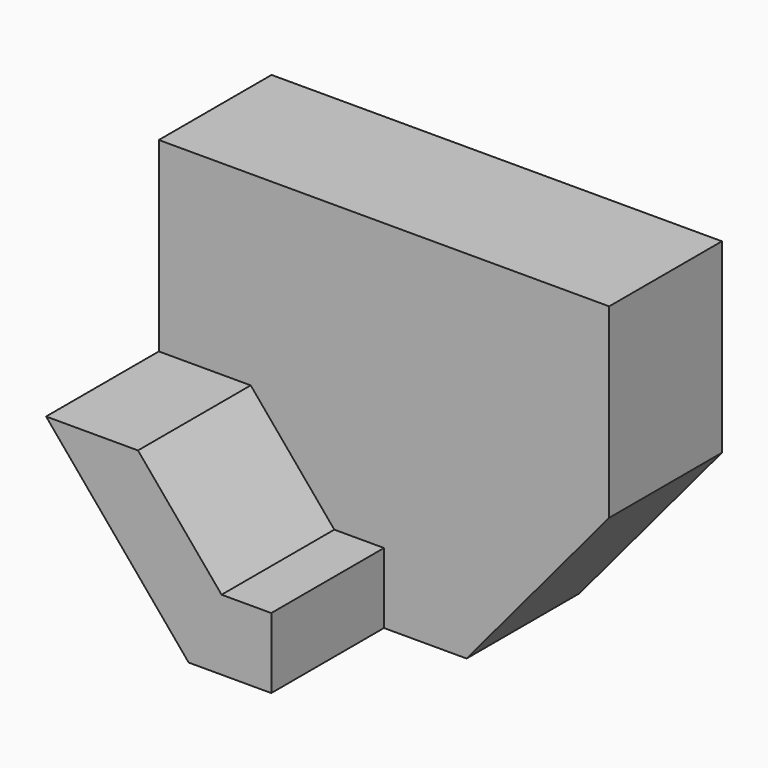
from build123d import *

# Parameters (mm, degrees)
F1_DEPTH = 25.4
F2_DEPTH = 25.4


with BuildPart() as f1:
    # F0 (on Front) → F1 (new body)
    with BuildSketch(Plane.XZ):
        Polygon((-7.885207, -19.406637), (-24.450425, -19.406637), (1.253124, -50.099254), (16.138992, -50.099254), (16.138992, -37.399254), (7.18272, -37.399254), align=None)
    extrude(amount=F1_DEPTH)

    # F0 (on Front) → F2 (join)
    with BuildSketch(Plane.XZ):
        Polygon((56.72841, 14.143533), (-24.450425, 14.143533), (-24.450425, -19.406637), (-7.885207, -19.406637), (7.18272, -37.399254), (16.138992, -37.399254), (25.095264, -37.399254), (40.163191, -19.406637), (56.72841, -19.406637), align=None)
        Polygon((-7.885207, -19.406637), (-24.450425, -19.406637), (1.253124, -50.099254), (16.138992, -50.099254), (16.138992, -37.399254), (7.18272, -37.399254), align=None)
        Polygon((31.02486, -50.099254), (56.72841, -19.406637), (40.163191, -19.406637), (25.095264, -37.399254), (16.138992, -37.399254), (16.138992, -50.099254), align=None)
    extrude(amount=-F2_DEPTH)


solid = f1.part
